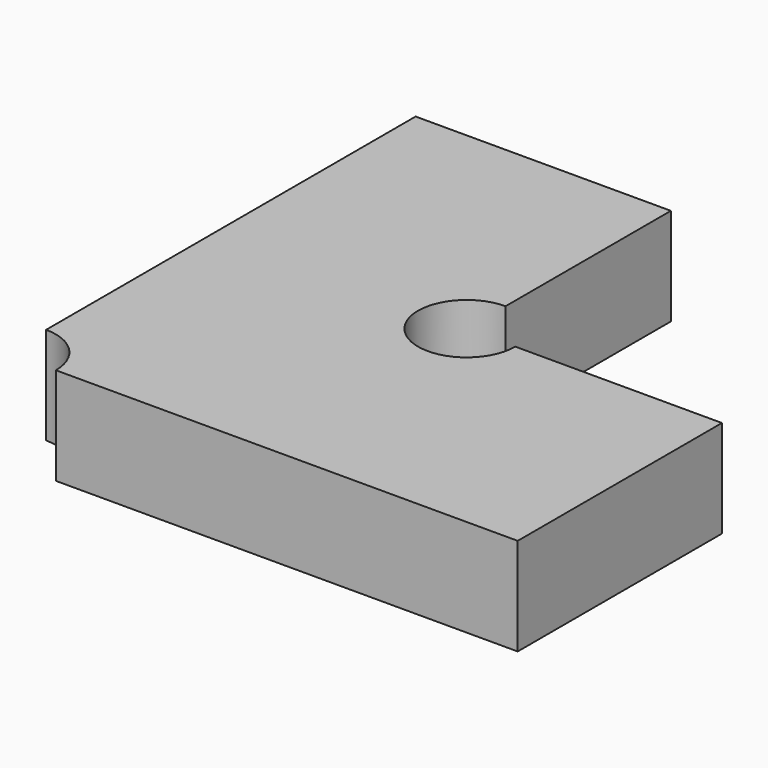
from build123d import *

# Parameters (mm, degrees)
PAD_DEPTH = 19.08


with BuildPart() as part:
    # Sketch → Pad (new body)
    with BuildSketch(Plane.XY):
        with BuildLine():
            Line((0, 100), (50, 100))
            Line((50, 59.525), (50, 100))
            ThreePointArc((50, 59.525), (43.264808, 43.264808), (59.525, 50))
            Line((59.525, 50), (100, 50))
            Line((100, 50), (100, 0))
            Line((9.525, 0), (100, 0))
            ThreePointArc((9.525, 0), (6.735192, 6.735192), (0, 9.525))
            Line((0, 9.525), (0, 100))
        make_face()
    extrude(amount=PAD_DEPTH)


solid = part.part
